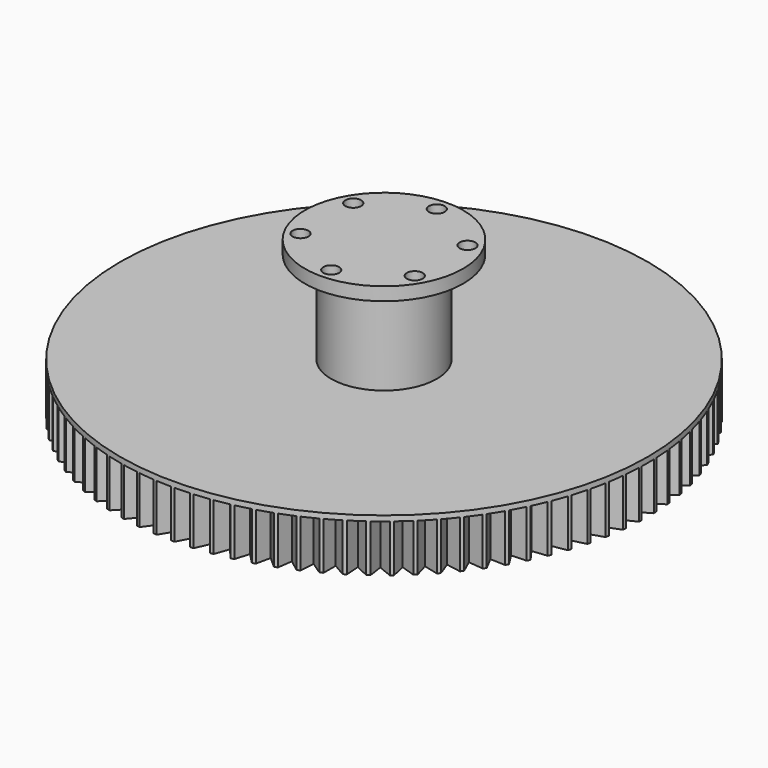
from build123d import *

# Parameters (mm, degrees)
F0_R          = 10
F1_DEPTH      = 15
F1_DEPTH_BACK = 12.5
F2_R          = 15
F3_DEPTH      = 2.5
F4_R          = 1.5
F5_DEPTH      = 10
F7_DEPTH      = 10
F8_R          = 50
F9_DEPTH      = 10
F11_DEPTH     = 9


with BuildPart() as f1:
    # F0 (on Top) → F1 (new body, two sides)
    with BuildSketch(Plane.XY) as f1_sk:
        Circle(F0_R)
    extrude(amount=F1_DEPTH)
    extrude(f1_sk.sketch, amount=-F1_DEPTH_BACK)

    # F2 (on face) → F3 (join)
    with BuildSketch(Plane.XY.offset(15)):
        Circle(F2_R)
    extrude(amount=F3_DEPTH)

    # F4 (on face) → F5 (cut)
    with BuildSketch(Plane.XY.offset(17.5)):
        with Locations((0, 12.5)):
            Circle(F4_R)
        with Locations((10.825318, 6.249999)):
            Circle(F4_R)
        with Locations((-1e-06, -12.5)):
            Circle(F4_R)
        with Locations((-10.825317, 6.25)):
            Circle(F4_R)
        with Locations((10.825317, -6.250001)):
            Circle(F4_R)
        with Locations((-10.825318, -6.25)):
            Circle(F4_R)
    extrude(amount=-F5_DEPTH, mode=Mode.SUBTRACT)

    # F6 (on face) → F7 (cut)
    with BuildSketch(Plane(origin=(0, 0, -12.5), x_dir=(1, 0, 0), z_dir=(0, 0, -1))):
        Polygon((-0.57735, 10), (0, 9), (0.57735, 10), align=None)
        Polygon((-1.34138, 8.899477), (-0.919521, 9.974358), (-2.061324, 9.802259), align=None)
        Polygon((-2.652797, 8.600155), (-2.395852, 9.725905), (-3.499252, 9.385551), align=None)
        Polygon((-3.904954, 8.10872), (-3.818663, 9.260192), (-4.859012, 8.759186), align=None)
        Polygon((-5.069881, 7.436149), (-5.156171, 8.587621), (-6.11023, 7.937155), align=None)
        Polygon((-6.121555, 6.597467), (-6.3785, 7.723217), (-7.224955, 6.937821), align=None)
        Polygon((-7.036483, 5.611408), (-7.458343, 6.686289), (-8.178287, 5.783507), align=None)
        Polygon((-7.794229, 4.5), (-8.371579, 5.5), (-8.948929, 4.5), align=None)
        Polygon((-8.377864, 3.288069), (-9.097808, 4.19085), (-9.519667, 3.11597), align=None)
        Polygon((-8.774351, 2.002688), (-9.620807, 2.788084), (-9.877752, 1.662334), align=None)
        Polygon((-8.974834, 0.672571), (-9.928893, 1.323037), (-10.015183, 0.171565), align=None)
        Polygon((-8.974834, -0.672571), (-10.015183, -0.171565), (-9.928893, -1.323037), align=None)
        Polygon((-8.774351, -2.002688), (-9.877752, -1.662334), (-9.620807, -2.788084), align=None)
        Polygon((-8.377864, -3.288069), (-9.519667, -3.11597), (-9.097808, -4.19085), align=None)
        Polygon((-7.794229, -4.5), (-8.948929, -4.5), (-8.371579, -5.5), align=None)
        Polygon((-7.036483, -5.611408), (-8.178287, -5.783507), (-7.458343, -6.686289), align=None)
        Polygon((-6.121555, -6.597467), (-7.224955, -6.937821), (-6.3785, -7.723217), align=None)
        Polygon((-5.069881, -7.436149), (-6.11023, -7.937155), (-5.156171, -8.587621), align=None)
        Polygon((-3.904954, -8.10872), (-4.859012, -8.759186), (-3.818663, -9.260192), align=None)
        Polygon((-2.652797, -8.600155), (-3.499252, -9.385551), (-2.395852, -9.725905), align=None)
        Polygon((-1.34138, -8.899477), (-2.061324, -9.802259), (-0.919521, -9.974358), align=None)
        Polygon((0, -9), (-0.57735, -10), (0.57735, -10), align=None)
        Polygon((1.34138, -8.899477), (0.919521, -9.974358), (2.061324, -9.802259), align=None)
        Polygon((2.652797, -8.600155), (2.395852, -9.725905), (3.499252, -9.385551), align=None)
        Polygon((3.904954, -8.10872), (3.818663, -9.260192), (4.859012, -8.759186), align=None)
        Polygon((5.069881, -7.436149), (5.156171, -8.587621), (6.11023, -7.937155), align=None)
        Polygon((6.121555, -6.597467), (6.3785, -7.723217), (7.224955, -6.937821), align=None)
        Polygon((7.036483, -5.611408), (7.458343, -6.686289), (8.178287, -5.783507), align=None)
        Polygon((7.794229, -4.5), (8.371579, -5.5), (8.948929, -4.5), align=None)
        Polygon((8.377864, -3.288069), (9.097808, -4.19085), (9.519667, -3.11597), align=None)
        Polygon((8.774351, -2.002688), (9.620807, -2.788084), (9.877752, -1.662334), align=None)
        Polygon((8.974834, -0.672571), (9.928893, -1.323037), (10.015183, -0.171565), align=None)
        Polygon((8.974834, 0.672571), (10.015183, 0.171565), (9.928893, 1.323037), align=None)
        Polygon((8.774351, 2.002688), (9.877752, 1.662334), (9.620807, 2.788084), align=None)
        Polygon((8.377864, 3.288069), (9.519667, 3.11597), (9.097808, 4.19085), align=None)
        Polygon((7.794229, 4.5), (8.948929, 4.5), (8.371579, 5.5), align=None)
        Polygon((7.036483, 5.611408), (8.178287, 5.783507), (7.458343, 6.686289), align=None)
        Polygon((6.121555, 6.597467), (7.224955, 6.937821), (6.3785, 7.723217), align=None)
        Polygon((5.069881, 7.436149), (6.11023, 7.937155), (5.156171, 8.587621), align=None)
        Polygon((3.904954, 8.10872), (4.859012, 8.759186), (3.818663, 9.260192), align=None)
        Polygon((2.652797, 8.600155), (3.499252, 9.385551), (2.395852, 9.725905), align=None)
        Polygon((1.34138, 8.899477), (2.061324, 9.802259), (0.919521, 9.974358), align=None)
    extrude(amount=-F7_DEPTH, mode=Mode.SUBTRACT)


with BuildPart() as f9:
    # F8 (on face) → F9 (new body)
    with BuildSketch(Plane(origin=(0, 0, -12.5), x_dir=(1, 0, 0), z_dir=(0, 0, -1))):
        Circle(F8_R)
        with BuildLine():
            ThreePointArc((9.998386, 0.179654), (9.999597, 0.089831), (10, 0))
            ThreePointArc((10, 0), (9.999597, -0.089831), (9.998386, -0.179654))
            Line((9.998386, -0.179654), (8.974834, -0.672571))
            Line((8.974834, -0.672571), (9.913488, -1.312534))
            ThreePointArc((9.913488, -1.312534), (9.888308, -1.490423), (9.859936, -1.66783))
            Line((9.859936, -1.66783), (8.774351, -2.002688))
            Line((8.774351, -2.002688), (9.60714, -2.775403))
            ThreePointArc((9.60714, -2.775403), (9.555728, -2.947552), (9.501232, -3.118749))
            Line((9.501232, -3.118749), (8.377864, -3.288069))
            Line((8.377864, -3.288069), (9.086184, -4.176274))
            ThreePointArc((9.086184, -4.176274), (9.009689, -4.338837), (8.930286, -4.5))
            Line((8.930286, -4.5), (7.794229, -4.5))
            Line((7.794229, -4.5), (8.362257, -5.483854))
            ThreePointArc((8.362257, -5.483854), (8.262388, -5.633201), (8.159851, -5.780729))
            Line((8.159851, -5.780729), (7.036483, -5.611408))
            Line((7.036483, -5.611408), (7.451532, -6.668934))
            ThreePointArc((7.451532, -6.668934), (7.330519, -6.801727), (7.20714, -6.932326))
            Line((7.20714, -6.932326), (6.121555, -6.597467))
            Line((6.121555, -6.597467), (6.374351, -7.70504))
            ThreePointArc((6.374351, -7.70504), (6.234898, -7.818315), (6.093432, -7.929066))
            Line((6.093432, -7.929066), (5.069881, -7.436149))
            Line((5.069881, -7.436149), (5.154778, -8.569029))
            ThreePointArc((5.154778, -8.569029), (5, -8.660254), (4.843608, -8.748683))
            Line((4.843608, -8.748683), (3.904954, -8.10872))
            Line((3.904954, -8.10872), (3.820056, -9.2416))
            ThreePointArc((3.820056, -9.2416), (3.65341, -9.308737), (3.485585, -9.37287))
            Line((3.485585, -9.37287), (2.652797, -8.600155))
            Line((2.652797, -8.600155), (2.4, -9.707729))
            ThreePointArc((2.4, -9.707729), (2.225209, -9.749279), (2.0497, -9.787682))
            Line((2.0497, -9.787682), (1.34138, -8.899477))
            Line((1.34138, -8.899477), (0.926332, -9.957003))
            ThreePointArc((0.926332, -9.957003), (0.747301, -9.972038), (0.568028, -9.983854))
            Line((0.568028, -9.983854), (0, -9))
            Line((0, -9), (-0.568028, -9.983854))
            ThreePointArc((-0.568028, -9.983854), (-0.747301, -9.972038), (-0.926332, -9.957003))
            Line((-0.926332, -9.957003), (-1.34138, -8.899477))
            Line((-1.34138, -8.899477), (-2.0497, -9.787682))
            ThreePointArc((-2.0497, -9.787682), (-2.225209, -9.749279), (-2.4, -9.707729))
            Line((-2.4, -9.707729), (-2.652797, -8.600155))
            Line((-2.652797, -8.600155), (-3.485585, -9.37287))
            ThreePointArc((-3.485585, -9.37287), (-3.65341, -9.308737), (-3.820056, -9.2416))
            Line((-3.820056, -9.2416), (-3.904954, -8.10872))
            Line((-3.904954, -8.10872), (-4.843608, -8.748683))
            ThreePointArc((-4.843608, -8.748683), (-5, -8.660254), (-5.154778, -8.569029))
            Line((-5.154778, -8.569029), (-5.069881, -7.436149))
            Line((-5.069881, -7.436149), (-6.093432, -7.929066))
            ThreePointArc((-6.093432, -7.929066), (-6.234898, -7.818315), (-6.374351, -7.70504))
            Line((-6.374351, -7.70504), (-6.121555, -6.597467))
            Line((-6.121555, -6.597467), (-7.20714, -6.932326))
            ThreePointArc((-7.20714, -6.932326), (-7.330519, -6.801727), (-7.451532, -6.668934))
            Line((-7.451532, -6.668934), (-7.036483, -5.611408))
            Line((-7.036483, -5.611408), (-8.159851, -5.780729))
            ThreePointArc((-8.159851, -5.780729), (-8.262388, -5.633201), (-8.362257, -5.483854))
            Line((-8.362257, -5.483854), (-7.794229, -4.5))
            Line((-7.794229, -4.5), (-8.930286, -4.5))
            ThreePointArc((-8.930286, -4.5), (-9.009689, -4.338837), (-9.086184, -4.176274))
            Line((-9.086184, -4.176274), (-8.377864, -3.288069))
            Line((-8.377864, -3.288069), (-9.501232, -3.118749))
            ThreePointArc((-9.501232, -3.118749), (-9.555728, -2.947552), (-9.60714, -2.775403))
            Line((-9.60714, -2.775403), (-8.774351, -2.002688))
            Line((-8.774351, -2.002688), (-9.859936, -1.66783))
            ThreePointArc((-9.859936, -1.66783), (-9.888308, -1.490423), (-9.913488, -1.312534))
            Line((-9.913488, -1.312534), (-8.974834, -0.672571))
            Line((-8.974834, -0.672571), (-9.998386, -0.179654))
            ThreePointArc((-9.998386, -0.179654), (-10, 0), (-9.998386, 0.179654))
            Line((-9.998386, 0.179654), (-8.974834, 0.672571))
            Line((-8.974834, 0.672571), (-9.913488, 1.312534))
            ThreePointArc((-9.913488, 1.312534), (-9.888308, 1.490423), (-9.859936, 1.66783))
            Line((-9.859936, 1.66783), (-8.774351, 2.002688))
            Line((-8.774351, 2.002688), (-9.60714, 2.775403))
            ThreePointArc((-9.60714, 2.775403), (-9.555728, 2.947552), (-9.501232, 3.118749))
            Line((-9.501232, 3.118749), (-8.377864, 3.288069))
            Line((-8.377864, 3.288069), (-9.086184, 4.176274))
            ThreePointArc((-9.086184, 4.176274), (-9.009689, 4.338837), (-8.930286, 4.5))
            Line((-8.930286, 4.5), (-7.794229, 4.5))
            Line((-7.794229, 4.5), (-8.362257, 5.483854))
            ThreePointArc((-8.362257, 5.483854), (-8.262388, 5.633201), (-8.159851, 5.780729))
            Line((-8.159851, 5.780729), (-7.036483, 5.611408))
            Line((-7.036483, 5.611408), (-7.451532, 6.668934))
            ThreePointArc((-7.451532, 6.668934), (-7.330519, 6.801727), (-7.20714, 6.932326))
            Line((-7.20714, 6.932326), (-6.121555, 6.597467))
            Line((-6.121555, 6.597467), (-6.374351, 7.70504))
            ThreePointArc((-6.374351, 7.70504), (-6.234898, 7.818315), (-6.093432, 7.929066))
            Line((-6.093432, 7.929066), (-5.069881, 7.436149))
            Line((-5.069881, 7.436149), (-5.154778, 8.569029))
            ThreePointArc((-5.154778, 8.569029), (-5, 8.660254), (-4.843608, 8.748683))
            Line((-4.843608, 8.748683), (-3.904954, 8.10872))
            Line((-3.904954, 8.10872), (-3.820056, 9.2416))
            ThreePointArc((-3.820056, 9.2416), (-3.65341, 9.308737), (-3.485585, 9.37287))
            Line((-3.485585, 9.37287), (-2.652797, 8.600155))
            Line((-2.652797, 8.600155), (-2.4, 9.707729))
            ThreePointArc((-2.4, 9.707729), (-2.225209, 9.749279), (-2.0497, 9.787682))
            Line((-2.0497, 9.787682), (-1.34138, 8.899477))
            Line((-1.34138, 8.899477), (-0.926332, 9.957003))
            ThreePointArc((-0.926332, 9.957003), (-0.747301, 9.972038), (-0.568028, 9.983854))
            Line((-0.568028, 9.983854), (0, 9))
            Line((0, 9), (0.568028, 9.983854))
            ThreePointArc((0.568028, 9.983854), (0.747301, 9.972038), (0.926332, 9.957003))
            Line((0.926332, 9.957003), (1.34138, 8.899477))
            Line((1.34138, 8.899477), (2.0497, 9.787682))
            ThreePointArc((2.0497, 9.787682), (2.225209, 9.749279), (2.4, 9.707729))
            Line((2.4, 9.707729), (2.652797, 8.600155))
            Line((2.652797, 8.600155), (3.485585, 9.37287))
            ThreePointArc((3.485585, 9.37287), (3.65341, 9.308737), (3.820056, 9.2416))
            Line((3.820056, 9.2416), (3.904954, 8.10872))
            Line((3.904954, 8.10872), (4.843608, 8.748683))
            ThreePointArc((4.843608, 8.748683), (5, 8.660254), (5.154778, 8.569029))
            Line((5.154778, 8.569029), (5.069881, 7.436149))
            Line((5.069881, 7.436149), (6.093432, 7.929066))
            ThreePointArc((6.093432, 7.929066), (6.234898, 7.818315), (6.374351, 7.70504))
            Line((6.374351, 7.70504), (6.121555, 6.597467))
            Line((6.121555, 6.597467), (7.20714, 6.932326))
            ThreePointArc((7.20714, 6.932326), (7.330519, 6.801727), (7.451532, 6.668934))
            Line((7.451532, 6.668934), (7.036483, 5.611408))
            Line((7.036483, 5.611408), (8.159851, 5.780729))
            ThreePointArc((8.159851, 5.780729), (8.262388, 5.633201), (8.362257, 5.483854))
            Line((8.362257, 5.483854), (7.794229, 4.5))
            Line((7.794229, 4.5), (8.930286, 4.5))
            ThreePointArc((8.930286, 4.5), (9.009689, 4.338837), (9.086184, 4.176274))
            Line((9.086184, 4.176274), (8.377864, 3.288069))
            Line((8.377864, 3.288069), (9.501232, 3.118749))
            ThreePointArc((9.501232, 3.118749), (9.555728, 2.947552), (9.60714, 2.775403))
            Line((9.60714, 2.775403), (8.774351, 2.002688))
            Line((8.774351, 2.002688), (9.859936, 1.66783))
            ThreePointArc((9.859936, 1.66783), (9.888308, 1.490423), (9.913488, 1.312534))
            Line((9.913488, 1.312534), (8.974834, 0.672571))
            Line((8.974834, 0.672571), (9.998386, 0.179654))
        make_face(mode=Mode.SUBTRACT)
    extrude(amount=-F9_DEPTH)

    # F10 (on face) → F11 (cut)
    with BuildSketch(Plane(origin=(0, 0, -12.5), x_dir=(1, 0, 0), z_dir=(0, 0, -1))):
        Polygon((50.5, 1.732051), (47.5, 0), (50.5, -1.732051), align=None)
        Polygon((50.497806, 1.79487), (50.256163, 5.250534), (47.384292, 3.313433), align=None)
        Polygon((50.249592, 5.313047), (49.767483, 8.743436), (47.037733, 6.610722), align=None)
        Polygon((49.756567, 8.805339), (49.03634, 12.193742), (46.462011, 9.875805), align=None)
        Polygon((49.021134, 12.254732), (48.066298, 15.584641), (45.659931, 13.092774), align=None)
        Polygon((48.046874, 15.644422), (46.862081, 18.899613), (44.635399, 16.245957), align=None)
        Polygon((46.838534, 18.957893), (45.429557, 22.122508), (43.393409, 19.319991), align=None)
        Polygon((45.402002, 22.179004), (43.775705, 25.237624), (41.940011, 22.299899), align=None)
        Polygon((43.744276, 25.29206), (41.908582, 28.229785), (40.282285, 25.171165), align=None)
        Polygon((41.873432, 28.281897), (39.837284, 31.084414), (38.428307, 27.919799), align=None)
        Polygon((39.798585, 31.133946), (37.571904, 33.787602), (36.387111, 30.532411), align=None)
        Polygon((37.529844, 33.834315), (35.123476, 36.326181), (34.168641, 32.996273), align=None)
        Polygon((35.07826, 36.369845), (32.503931, 38.687782), (31.783704, 35.299379), align=None)
        Polygon((32.455779, 38.728186), (29.72603, 40.8609), (29.24392, 37.430511), align=None)
        Polygon((29.675177, 40.897847), (26.803306, 42.834948), (26.561663, 39.379285), align=None)
        Polygon((26.75, 42.868257), (23.75, 44.600308), (23.75, 41.136207), align=None)
        Polygon((23.6945, 44.629818), (20.580986, 46.14838), (20.822629, 42.692717), align=None)
        Polygon((20.523563, 46.173947), (17.311703, 47.471622), (17.793813, 44.041233), align=None)
        Polygon((17.252636, 47.493121), (13.95808, 48.563587), (14.678307, 45.175185), align=None)
        Polygon((13.897657, 48.580913), (10.536454, 49.418955), (11.49129, 46.089047), align=None)
        Polygon((10.47497, 49.432024), (7.063496, 50.033559), (8.248288, 46.778368), align=None)
        Polygon((7.00125, 50.042307), (3.556125, 50.404404), (4.965102, 47.23979), align=None)
        Polygon((3.49342, 50.408789), (0.031429, 50.529684), (1.657726, 47.471064), align=None)
        Polygon((-0.031429, 50.529684), (-3.49342, 50.408789), (-1.657726, 47.471064), align=None)
        Polygon((-3.556125, 50.404404), (-7.00125, 50.042307), (-4.965102, 47.23979), align=None)
        Polygon((-7.063496, 50.033559), (-10.47497, 49.432024), (-8.248288, 46.778368), align=None)
        Polygon((-10.536454, 49.418955), (-13.897657, 48.580913), (-11.49129, 46.089047), align=None)
        Polygon((-13.95808, 48.563587), (-17.252636, 47.493121), (-14.678307, 45.175185), align=None)
        Polygon((-17.311703, 47.471622), (-20.523563, 46.173947), (-17.793813, 44.041233), align=None)
        Polygon((-20.580986, 46.14838), (-23.6945, 44.629818), (-20.822629, 42.692717), align=None)
        Polygon((-23.75, 44.600308), (-26.75, 42.868257), (-23.75, 41.136207), align=None)
        Polygon((-26.803306, 42.834948), (-29.675177, 40.897847), (-26.561663, 39.379285), align=None)
        Polygon((-29.72603, 40.8609), (-32.455779, 38.728186), (-29.24392, 37.430511), align=None)
        Polygon((-32.503931, 38.687782), (-35.07826, 36.369845), (-31.783704, 35.299379), align=None)
        Polygon((-35.123476, 36.326181), (-37.529844, 33.834315), (-34.168641, 32.996273), align=None)
        Polygon((-37.571904, 33.787602), (-39.798585, 31.133946), (-36.387111, 30.532411), align=None)
        Polygon((-39.837284, 31.084414), (-41.873432, 28.281897), (-38.428307, 27.919799), align=None)
        Polygon((-41.908582, 28.229785), (-43.744276, 25.29206), (-40.282285, 25.171165), align=None)
        Polygon((-43.775705, 25.237624), (-45.402002, 22.179004), (-41.940011, 22.299899), align=None)
        Polygon((-45.429557, 22.122508), (-46.838534, 18.957893), (-43.393409, 19.319991), align=None)
        Polygon((-46.862081, 18.899613), (-48.046874, 15.644422), (-44.635399, 16.245957), align=None)
        Polygon((-48.066298, 15.584641), (-49.021134, 12.254732), (-45.659931, 13.092774), align=None)
        Polygon((-49.03634, 12.193742), (-49.756567, 8.805339), (-46.462011, 9.875805), align=None)
        Polygon((-49.767483, 8.743436), (-50.249592, 5.313047), (-47.037733, 6.610722), align=None)
        Polygon((-50.256163, 5.250534), (-50.497806, 1.79487), (-47.384292, 3.313433), align=None)
        Polygon((-50.5, 1.732051), (-50.5, -1.732051), (-47.5, 0), align=None)
        Polygon((-50.497806, -1.79487), (-50.256163, -5.250534), (-47.384292, -3.313433), align=None)
        Polygon((-50.249592, -5.313047), (-49.767483, -8.743436), (-47.037733, -6.610722), align=None)
        Polygon((-49.756567, -8.805339), (-49.03634, -12.193742), (-46.462011, -9.875805), align=None)
        Polygon((-49.021134, -12.254732), (-48.066298, -15.584641), (-45.659931, -13.092774), align=None)
        Polygon((-48.046874, -15.644422), (-46.862081, -18.899613), (-44.635399, -16.245957), align=None)
        Polygon((-46.838534, -18.957893), (-45.429557, -22.122508), (-43.393409, -19.319991), align=None)
        Polygon((-45.402002, -22.179004), (-43.775705, -25.237624), (-41.940011, -22.299899), align=None)
        Polygon((-43.744276, -25.29206), (-41.908582, -28.229785), (-40.282285, -25.171165), align=None)
        Polygon((-41.873432, -28.281897), (-39.837284, -31.084414), (-38.428307, -27.919799), align=None)
        Polygon((-39.798585, -31.133946), (-37.571904, -33.787602), (-36.387111, -30.532411), align=None)
        Polygon((-37.529844, -33.834315), (-35.123476, -36.326181), (-34.168641, -32.996273), align=None)
        Polygon((-35.07826, -36.369845), (-32.503931, -38.687782), (-31.783704, -35.299379), align=None)
        Polygon((-32.455779, -38.728186), (-29.72603, -40.8609), (-29.24392, -37.430511), align=None)
        Polygon((-29.675177, -40.897847), (-26.803306, -42.834948), (-26.561663, -39.379285), align=None)
        Polygon((-26.75, -42.868257), (-23.75, -44.600308), (-23.75, -41.136207), align=None)
        Polygon((-23.6945, -44.629818), (-20.580986, -46.14838), (-20.822629, -42.692717), align=None)
        Polygon((-20.523563, -46.173947), (-17.311703, -47.471622), (-17.793813, -44.041233), align=None)
        Polygon((-17.252636, -47.493121), (-13.95808, -48.563587), (-14.678307, -45.175185), align=None)
        Polygon((-13.897657, -48.580913), (-10.536454, -49.418955), (-11.49129, -46.089047), align=None)
        Polygon((-10.47497, -49.432024), (-7.063496, -50.033559), (-8.248288, -46.778368), align=None)
        Polygon((-7.00125, -50.042307), (-3.556125, -50.404404), (-4.965102, -47.23979), align=None)
        Polygon((-3.49342, -50.408789), (-0.031429, -50.529684), (-1.657726, -47.471064), align=None)
        Polygon((0.031429, -50.529684), (3.49342, -50.408789), (1.657726, -47.471064), align=None)
        Polygon((3.556125, -50.404404), (7.00125, -50.042307), (4.965102, -47.23979), align=None)
        Polygon((7.063496, -50.033559), (10.47497, -49.432024), (8.248288, -46.778368), align=None)
        Polygon((10.536454, -49.418955), (13.897657, -48.580913), (11.49129, -46.089047), align=None)
        Polygon((13.95808, -48.563587), (17.252636, -47.493121), (14.678307, -45.175185), align=None)
        Polygon((17.311703, -47.471622), (20.523563, -46.173947), (17.793813, -44.041233), align=None)
        Polygon((20.580986, -46.14838), (23.6945, -44.629818), (20.822629, -42.692717), align=None)
        Polygon((23.75, -44.600308), (26.75, -42.868257), (23.75, -41.136207), align=None)
        Polygon((26.803306, -42.834948), (29.675177, -40.897847), (26.561663, -39.379285), align=None)
        Polygon((29.72603, -40.8609), (32.455779, -38.728186), (29.24392, -37.430511), align=None)
        Polygon((32.503931, -38.687782), (35.07826, -36.369845), (31.783704, -35.299379), align=None)
        Polygon((35.123476, -36.326181), (37.529844, -33.834315), (34.168641, -32.996273), align=None)
        Polygon((37.571904, -33.787602), (39.798585, -31.133946), (36.387111, -30.532411), align=None)
        Polygon((39.837284, -31.084414), (41.873432, -28.281897), (38.428307, -27.919799), align=None)
        Polygon((41.908582, -28.229785), (43.744276, -25.29206), (40.282285, -25.171165), align=None)
        Polygon((43.775705, -25.237624), (45.402002, -22.179004), (41.940011, -22.299899), align=None)
        Polygon((45.429557, -22.122508), (46.838534, -18.957893), (43.393409, -19.319991), align=None)
        Polygon((46.862081, -18.899613), (48.046874, -15.644422), (44.635399, -16.245957), align=None)
        Polygon((48.066298, -15.584641), (49.021134, -12.254732), (45.659931, -13.092774), align=None)
        Polygon((49.03634, -12.193742), (49.756567, -8.805339), (46.462011, -9.875805), align=None)
        Polygon((49.767483, -8.743436), (50.249592, -5.313047), (47.037733, -6.610722), align=None)
        Polygon((50.256163, -5.250534), (50.497806, -1.79487), (47.384292, -3.313433), align=None)
    extrude(amount=-F11_DEPTH, mode=Mode.SUBTRACT)


solid = Compound([f1.part, f9.part])
